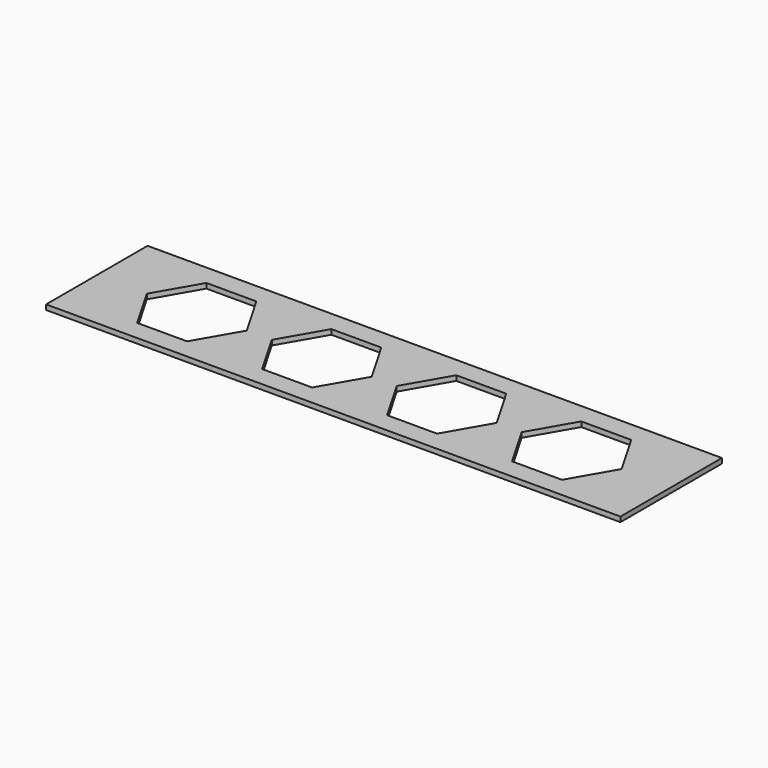
from build123d import *

# Parameters (mm, degrees)
BOX_W        = 115
BOX_H        = 25.4
BOX_DEPTH    = 1
POCKET_DEPTH = 5


with BuildPart() as part:
    # Box → Box (new body)
    with BuildSketch(Plane.XY):
        with Locations((57.5, 12.7)):
            Rectangle(BOX_W, BOX_H)
    extrude(amount=BOX_DEPTH)

    # Sketch (on Face6 of BaseFeature) → Pocket (cut)
    with BuildSketch(Plane.XY.offset(1)):
        Polygon((25.040976, 4.003275), (30.040976, 12.663529), (25.040976, 21.323783), (15.040976, 21.323783), (10.040976, 12.663529), (15.040976, 4.003275), align=None)
        Polygon((50.058906, 4.004545), (55.058906, 12.664799), (50.058906, 21.325053), (40.058906, 21.325053), (35.058906, 12.664799), (40.058906, 4.004545), align=None)
        Polygon((75.076836, 4.005815), (80.076836, 12.666069), (75.076836, 21.326323), (65.076836, 21.326323), (60.076836, 12.666069), (65.076836, 4.005815), align=None)
        Polygon((100.094766, 4.007085), (105.094766, 12.667339), (100.094766, 21.327593), (90.094766, 21.327593), (85.094766, 12.667339), (90.094766, 4.007085), align=None)
    extrude(amount=-POCKET_DEPTH, mode=Mode.SUBTRACT)


solid = part.part
